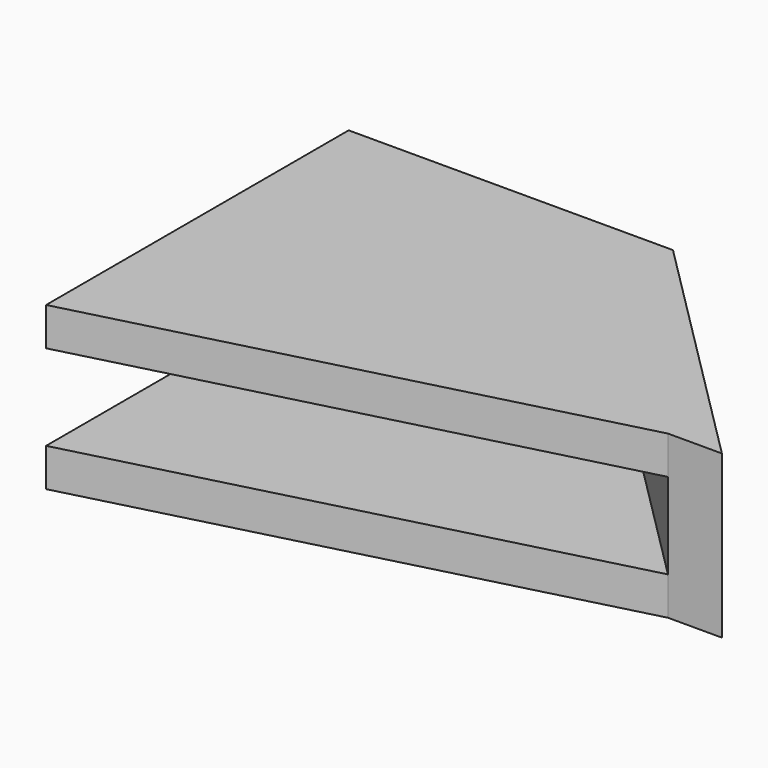
from build123d import *

# Parameters (mm, degrees)
F1_DEPTH = 8.5
F3_START = 2
F2_W     = 17
F2_H     = 3.2842862599
F3_DEPTH = 4.5


with BuildPart() as f1:
    # F0 (on Top) → F1 (new body)
    with BuildSketch(Plane.XY):
        Polygon((-27, 0), (0, 0), (-10, 10), (-27, 10), align=None)
        Polygon((-27, -7), (0, 0), (-27, 0), align=None)
        Polygon((-27, 0), (0, 0), (-10, 10), (-27, 10), align=None)
        Polygon((-10, 10), (0, 0), (2.8284271247, 0), (-10.0005280692, 12.828955194), align=None)
        Polygon((-27, 10), (-10, 10), (-10.0005280692, 12.828955194), (-27, 12.8257819737), align=None)
    extrude(amount=F1_DEPTH)

    # F2 (on Top) → F3 (cut)
    with BuildSketch(Plane.XY.offset(F3_START)):
        Polygon((-27, -7), (0, 0), (-27, 0), align=None)
        Polygon((-27, 0), (0, 0), (-10, 10), (-27, 10), align=None)
        with Locations((-18.5, 11.6421431299)):
            Rectangle(F2_W, F2_H)
    extrude(amount=F3_DEPTH, mode=Mode.SUBTRACT)


solid = f1.part
